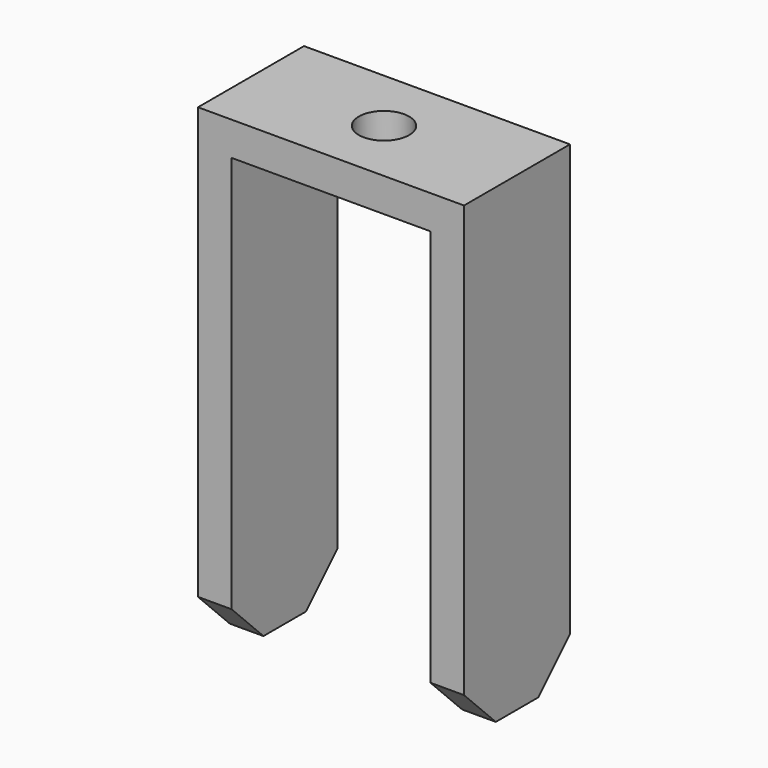
from build123d import *

# Parameters (mm, degrees)
F1_DEPTH = 50
F2_R     = 9.5
F3_DEPTH = 177.701
F5_SIZE  = 15
F6_SIZE  = 15


with BuildPart() as f1:
    # F0 (on Front) → F1 (new body)
    with BuildSketch(Plane.XZ):
        Polygon((0, 177.7), (0, 0), (12.7, 0), (12.7, 165), (87.7, 165), (87.7, 0), (100.4, 0), (100.4, 177.7), align=None)
    extrude(amount=F1_DEPTH)

    # F2 (on face) → F3 (cut, through all)
    with BuildSketch(Plane.XY.offset(177.7)):
        with Locations((50.2, -25)):
            Circle(F2_R)
    extrude(amount=-F3_DEPTH, mode=Mode.SUBTRACT)

    # F5
    f5_edges = [f1.edges().sort_by_distance(p)[0] for p in [
        (6.35, -50, 0),
        (6.35, 0, 0),
    ]]
    chamfer(f5_edges, length=F5_SIZE)

    # F6
    f6_edges = [f1.edges().sort_by_distance(p)[0] for p in [
        (94.05, -50, 0),
        (94.05, 0, 0),
    ]]
    chamfer(f6_edges, length=F6_SIZE)


solid = f1.part
